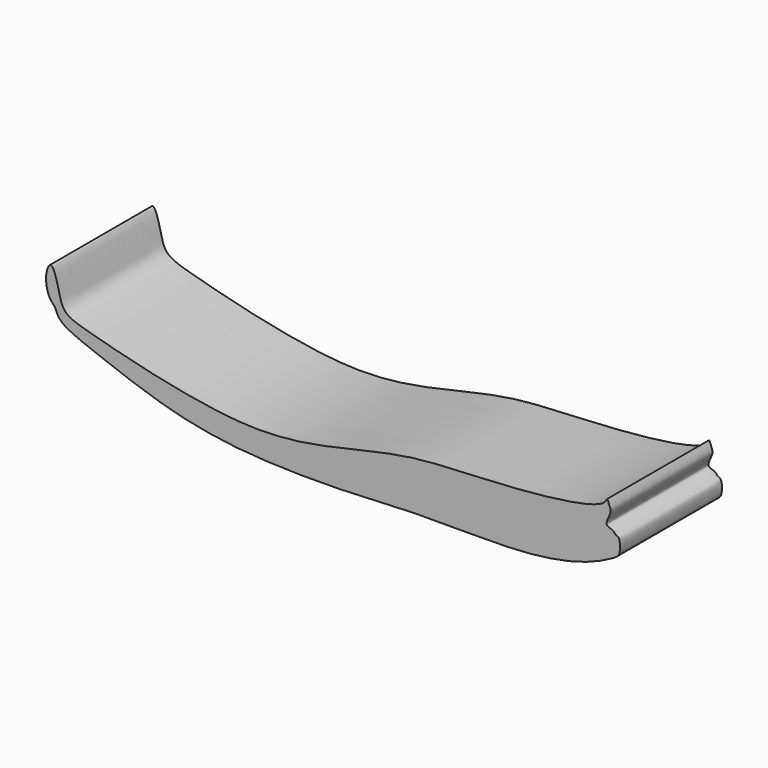
from build123d import *

# Parameters (mm, degrees)
F1_DEPTH = 30


with BuildPart() as f1:
    # F0 (on Front) → F1 (new body)
    with BuildSketch(Plane.XZ):
        with BuildLine():
            add(Edge.make_bspline(
                [(-68.9905211329, -3.4456704743), (-69.436808585, -3.3319954478), (-70.5792773963, -5.625028194), (-69.7992037567, -10.3782447414), (-67.8809436321, -11.7339536435), (-67.3030584351, -14.7683296453), (-58.3696848186, -18.2375231892), (-40.8939480952, -24.8844721111), (-21.639053473, -27.9839501164), (1.7934232018, -27.9030154495), (14.5708383183, -26.8593977125), (31.2777077796, -27.0886522239), (45.3616310774, -26.8263127017), (57.1902737341, -24.4272984716), (64.1032264886, -20.8766373533), (65.0379560472, -19.6868618632), (65.0279253758, -16.2383280916), (63.868706616, -16.2531433425), (63.4872325403, -15.2070626424), (60.9859550676, -15.0536285772), (63.1317055562, -11.8581181822), (62.4608947919, -10.5131342865), (61.892024209, -8.8825716283), (61.3957795892, -11.6345317889), (43.8161882704, -14.3250865412), (24.3074472838, -14.829891286), (12.1510119222, -15.991348456), (-2.6896805742, -19.7617667292), (-13.6354041303, -21.6358747827), (-26.3885215514, -21.8961227897), (-45.9534927721, -18.2332257836), (-59.0331180308, -14.6670304958), (-66.1524929456, -12.7219686657), (-67.0780940908, -8.4429211854), (-68.3242912395, -3.6153676067), (-68.9905211329, -3.4456704743)],
                knots=[0, 0, 0, 0, 0.016459706, 0.0410026037, 0.0572443659, 0.0744785745, 0.1070859681, 0.1555205579, 0.2057253393, 0.258856466, 0.2991447215, 0.3439536776, 0.3861745694, 0.4253005138, 0.4547614113, 0.4682424964, 0.4872719079, 0.4971699421, 0.5080698222, 0.5221821223, 0.540912674, 0.55520966, 0.5666768166, 0.5784150221, 0.6234526567, 0.6745327774, 0.713431698, 0.7563344956, 0.793236827, 0.832659846, 0.8826304283, 0.9242712155, 0.9520605563, 0.9754285089, 1, 1, 1, 1], degree=3))
        make_face()
    extrude(amount=F1_DEPTH)


solid = f1.part
